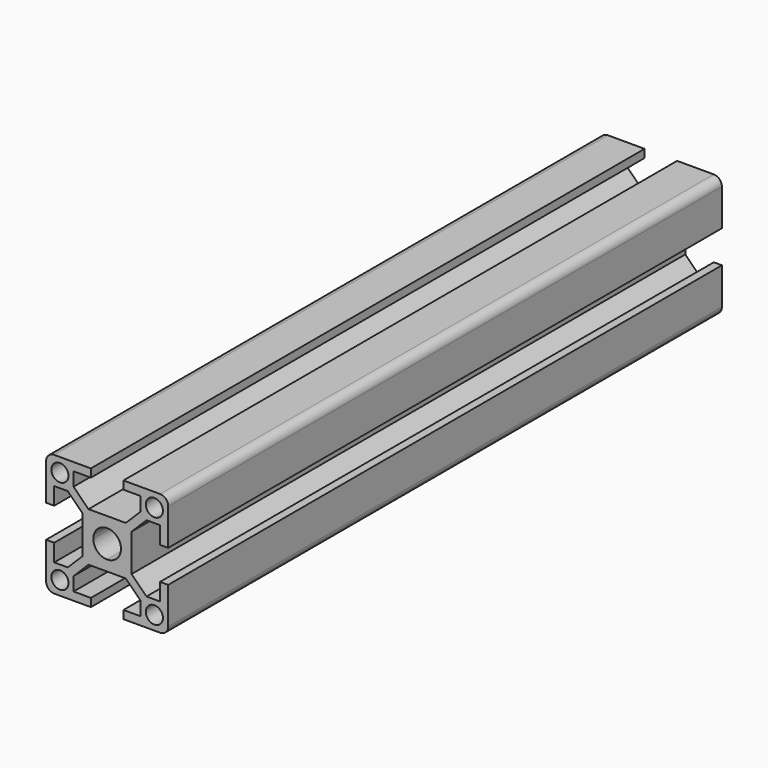
from build123d import *

# Parameters (mm, degrees)
F0_R     = 2.1
F1_DEPTH = 170


with BuildPart() as f1:
    # F0 (on Front) → F1 (new body)
    with BuildSketch(Plane.XZ):
        with BuildLine():
            Line((4.585786, 6), (0, 6))
            Line((0, 6), (-4.585786, 6))
            Line((-4.585786, 6), (-8.25, 9.664214))
            Line((-8.25, 9.664214), (-8.25, 13))
            Line((-8.25, 13), (-4, 13))
            Line((-4, 13), (-4, 15))
            Line((-4, 15), (-13, 15))
            ThreePointArc((-13, 15), (-14.414214, 14.414214), (-15, 13))
            Line((-15, 13), (-15, 4))
            Line((-15, 4), (-13, 4))
            Line((-13, 4), (-13, 8.25))
            Line((-13, 8.25), (-9.664214, 8.25))
            Line((-9.664214, 8.25), (-6, 4.585786))
            Line((-6, 4.585786), (-6, 0))
            Line((-6, 0), (-6, -4.585786))
            Line((-6, -4.585786), (-9.664214, -8.25))
            Line((-9.664214, -8.25), (-13, -8.25))
            Line((-13, -8.25), (-13, -4))
            Line((-13, -4), (-15, -4))
            Line((-15, -4), (-15, -13))
            ThreePointArc((-15, -13), (-14.414214, -14.414214), (-13, -15))
            Line((-13, -15), (-4, -15))
            Line((-4, -15), (-4, -13))
            Line((-4, -13), (-8.25, -13))
            Line((-8.25, -13), (-8.25, -9.664214))
            Line((-8.25, -9.664214), (-4.585786, -6))
            Line((-4.585786, -6), (0, -6))
            Line((0, -6), (4.585786, -6))
            Line((4.585786, -6), (8.25, -9.664214))
            Line((8.25, -9.664214), (8.25, -13))
            Line((8.25, -13), (4, -13))
            Line((4, -13), (4, -15))
            Line((4, -15), (13, -15))
            ThreePointArc((13, -15), (14.414214, -14.414214), (15, -13))
            Line((15, -13), (15, -4))
            Line((15, -4), (13, -4))
            Line((13, -4), (13, -8.25))
            Line((13, -8.25), (9.664214, -8.25))
            Line((9.664214, -8.25), (6, -4.585786))
            Line((6, -4.585786), (6, 0))
            Line((6, 0), (6, 4.585786))
            Line((6, 4.585786), (9.664214, 8.25))
            Line((9.664214, 8.25), (13, 8.25))
            Line((13, 8.25), (13, 4))
            Line((13, 4), (15, 4))
            Line((15, 4), (15, 13))
            ThreePointArc((15, 13), (14.414214, 14.414214), (13, 15))
            Line((13, 15), (4, 15))
            Line((4, 15), (4, 13))
            Line((4, 13), (8.25, 13))
            Line((8.25, 13), (8.25, 9.664214))
            Line((8.25, 9.664214), (4.585786, 6))
        make_face()
        with Locations((-11.6, -11.6)):
            Circle(F0_R, mode=Mode.SUBTRACT)
        with Locations((11.6, -11.6)):
            Circle(F0_R, mode=Mode.SUBTRACT)
        with Locations((-11.6, 11.6)):
            Circle(F0_R, mode=Mode.SUBTRACT)
        with BuildLine():
            ThreePointArc((-3.4, 0), (-2.404163, 2.404163), (0, 3.4))
            ThreePointArc((0, 3.4), (2.404163, 2.404163), (3.4, 0))
            ThreePointArc((3.4, 0), (2.404163, -2.404163), (0, -3.4))
            ThreePointArc((0, -3.4), (-2.404163, -2.404163), (-3.4, 0))
        make_face(mode=Mode.SUBTRACT)
        with Locations((11.6, 11.6)):
            Circle(F0_R, mode=Mode.SUBTRACT)
    extrude(amount=F1_DEPTH)


solid = f1.part
